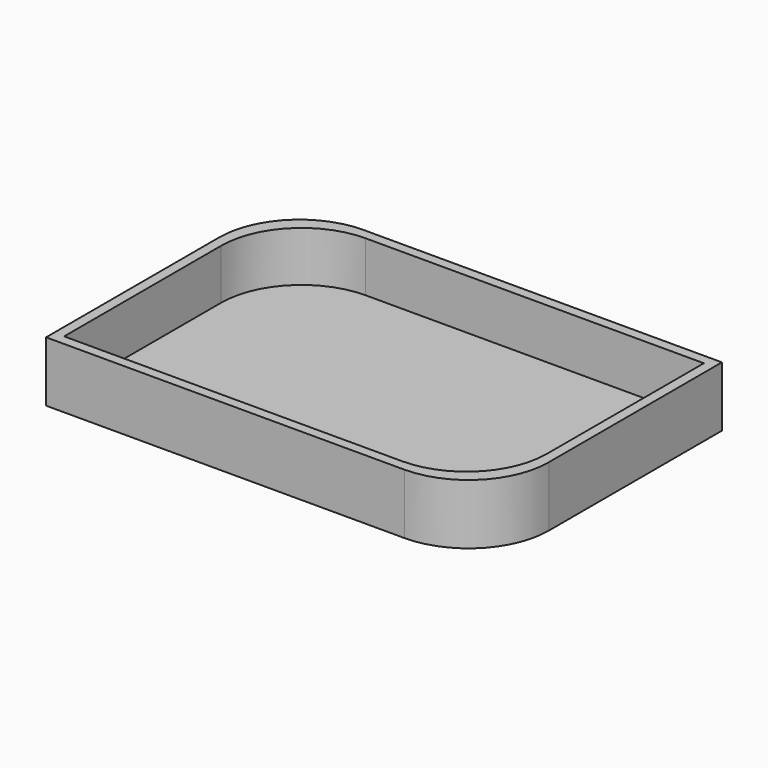
from build123d import *

# Parameters (mm, degrees)
F0_W     = 55.499
F0_H     = 37.5412
F0_W_2   = 52.959
F0_H_2   = 35.0012
F1_DEPTH = 1.27
F2_DEPTH = 7.62
F3_R     = 10.16


with BuildPart() as f1:
    # F0 (on Top) → F1 (new body)
    with BuildSketch(Plane.XY):
        with Locations((-37.199277, 3.972059)):
            Rectangle(F0_W, F0_H)
        with Locations((-37.199277, 3.972059)):
            Rectangle(F0_W_2, F0_H_2, mode=Mode.SUBTRACT)
        with Locations((-37.199277, 3.972059)):
            Rectangle(F0_W_2, F0_H_2)
    extrude(amount=F1_DEPTH)

    # F0 (on Top) → F2 (join)
    with BuildSketch(Plane.XY):
        with Locations((-37.199277, 3.972059)):
            Rectangle(F0_W, F0_H)
        with Locations((-37.199277, 3.972059)):
            Rectangle(F0_W_2, F0_H_2, mode=Mode.SUBTRACT)
    extrude(amount=F2_DEPTH)

    # F3
    f3_edges = [f1.edges().sort_by_distance(p)[0] for p in [
        (-64.948777, 22.742659, 3.81),
        (-63.678777, 21.472659, 4.445),
        (-10.719777, -13.528541, 4.445),
        (-9.449777, -14.798541, 3.81),
    ]]
    fillet(f3_edges, radius=F3_R)


solid = f1.part
